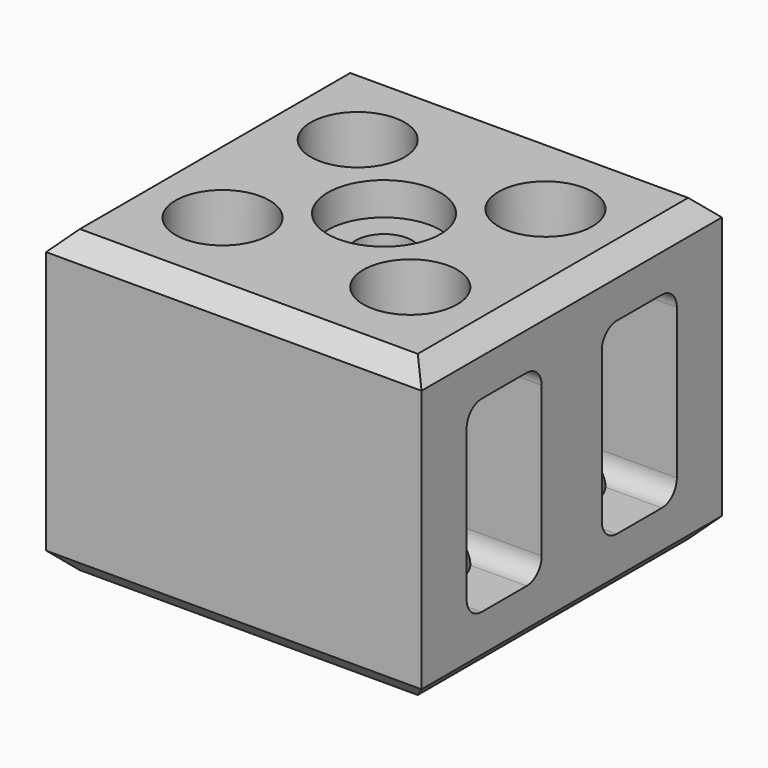
from build123d import *

# Parameters (mm, degrees)
CYLINDER006_R     = 3
CYLINDER006_DEPTH = 2
CYLINDER005_R     = 3
CYLINDER005_DEPTH = 2
CYLINDER004_R     = 1.5
CYLINDER004_DEPTH = 16
CYLINDER003_R     = 2.5
CYLINDER003_DEPTH = 18
CYLINDER002_R     = 2.5
CYLINDER002_DEPTH = 18
CYLINDER001_R     = 2.5
CYLINDER001_DEPTH = 18
CYLINDER_R        = 2.5
CYLINDER_DEPTH    = 18
BOX001_W          = 22
BOX001_H          = 5
BOX001_DEPTH      = 10
BOX002_W          = 22
BOX002_H          = 5
BOX002_DEPTH      = 10
BOX_W             = 20
BOX_H             = 20
BOX_DEPTH         = 16
CHAMFER_SIZE      = 1
FILLET_R          = 1
FILLET001_R       = 1


with BuildPart() as cylinder006:
    # Cylinder006 → Cylinder006 (new body)
    with BuildSketch(Plane(origin=(10, 10, 14.25), x_dir=(1, 0, 0), z_dir=(0, 0, 1))):
        Circle(CYLINDER006_R)
    extrude(amount=CYLINDER006_DEPTH)


with BuildPart() as cylinder005:
    # Cylinder005 → Cylinder005 (new body)
    with BuildSketch(Plane(origin=(10, 10, -0.5), x_dir=(1, 0, 0), z_dir=(0, 0, 1))):
        Circle(CYLINDER005_R)
    extrude(amount=CYLINDER005_DEPTH)


with BuildPart() as cylinder004:
    # Cylinder004 → Cylinder004 (new body)
    with BuildSketch(Plane(origin=(10, 10, 0), x_dir=(1, 0, 0), z_dir=(0, 0, 1))):
        Circle(CYLINDER004_R)
    extrude(amount=CYLINDER004_DEPTH)


with BuildPart() as cylinder003:
    # Cylinder003 → Cylinder003 (new body)
    with BuildSketch(Plane(origin=(15, 5.5, -1), x_dir=(1, 0, 0), z_dir=(0, 0, 1))):
        Circle(CYLINDER003_R)
    extrude(amount=CYLINDER003_DEPTH)


with BuildPart() as cylinder002:
    # Cylinder002 → Cylinder002 (new body)
    with BuildSketch(Plane(origin=(15, 14.5, -1), x_dir=(1, 0, 0), z_dir=(0, 0, 1))):
        Circle(CYLINDER002_R)
    extrude(amount=CYLINDER002_DEPTH)


with BuildPart() as cylinder001:
    # Cylinder001 → Cylinder001 (new body)
    with BuildSketch(Plane(origin=(5, 14.5, -1), x_dir=(1, 0, 0), z_dir=(0, 0, 1))):
        Circle(CYLINDER001_R)
    extrude(amount=CYLINDER001_DEPTH)


with BuildPart() as cylinder:
    # Cylinder → Cylinder (new body)
    with BuildSketch(Plane(origin=(5, 5.5, -1), x_dir=(1, 0, 0), z_dir=(0, 0, 1))):
        Circle(CYLINDER_R)
    extrude(amount=CYLINDER_DEPTH)


with BuildPart() as cube001:
    # Box001 → Box001 (new body)
    with BuildSketch(Plane(origin=(-1, 12, 3), x_dir=(1, 0, 0), z_dir=(0, 0, 1))):
        with Locations((11, 2.5)):
            Rectangle(BOX001_W, BOX001_H)
    extrude(amount=BOX001_DEPTH)


with BuildPart() as cube002:
    # Box002 → Box002 (new body)
    with BuildSketch(Plane(origin=(-1, 3, 3), x_dir=(1, 0, 0), z_dir=(0, 0, 1))):
        with Locations((11, 2.5)):
            Rectangle(BOX002_W, BOX002_H)
    extrude(amount=BOX002_DEPTH)


with BuildPart() as cut008:
    # Box → Box (new body)
    with BuildSketch(Plane.XY):
        with Locations((10, 10)):
            Rectangle(BOX_W, BOX_H)
    extrude(amount=BOX_DEPTH)

    # Chamfer
    chamfer_edges = [cut008.edges().sort_by_distance(p)[0] for p in [
        (20, 10, 16),
        (10, 20, 16),
        (0, 10, 16),
        (10, 0, 16),
        (10, 0, 0),
        (20, 10, 0),
        (0, 10, 0),
        (10, 20, 0),
    ]]
    chamfer(chamfer_edges, length=CHAMFER_SIZE)

    # Cut: cut Cube002
    add(cube002.part, mode=Mode.SUBTRACT)

    # Cut001: cut Cube001
    add(cube001.part, mode=Mode.SUBTRACT)

    # Fillet
    fillet_edges = [cut008.edges().sort_by_distance(p)[0] for p in [
        (10, 8, 13),
        (10, 3, 13),
        (10, 3, 3),
        (10, 8, 3),
    ]]
    fillet(fillet_edges, radius=FILLET_R)

    # Fillet001
    fillet001_edges = [cut008.edges().sort_by_distance(p)[0] for p in [
        (10, 12, 13),
        (10, 17, 13),
        (10, 17, 3),
        (10, 12, 3),
    ]]
    fillet(fillet001_edges, radius=FILLET001_R)

    # Cut002: cut Cylinder
    add(cylinder.part, mode=Mode.SUBTRACT)

    # Cut003: cut Cylinder001
    add(cylinder001.part, mode=Mode.SUBTRACT)

    # Cut004: cut Cylinder002
    add(cylinder002.part, mode=Mode.SUBTRACT)

    # Cut005: cut Cylinder003
    add(cylinder003.part, mode=Mode.SUBTRACT)

    # Cut006: cut Cylinder004
    add(cylinder004.part, mode=Mode.SUBTRACT)

    # Cut007: cut Cylinder005
    add(cylinder005.part, mode=Mode.SUBTRACT)

    # Cut008: cut Cylinder006
    add(cylinder006.part, mode=Mode.SUBTRACT)


solid = cut008.part
